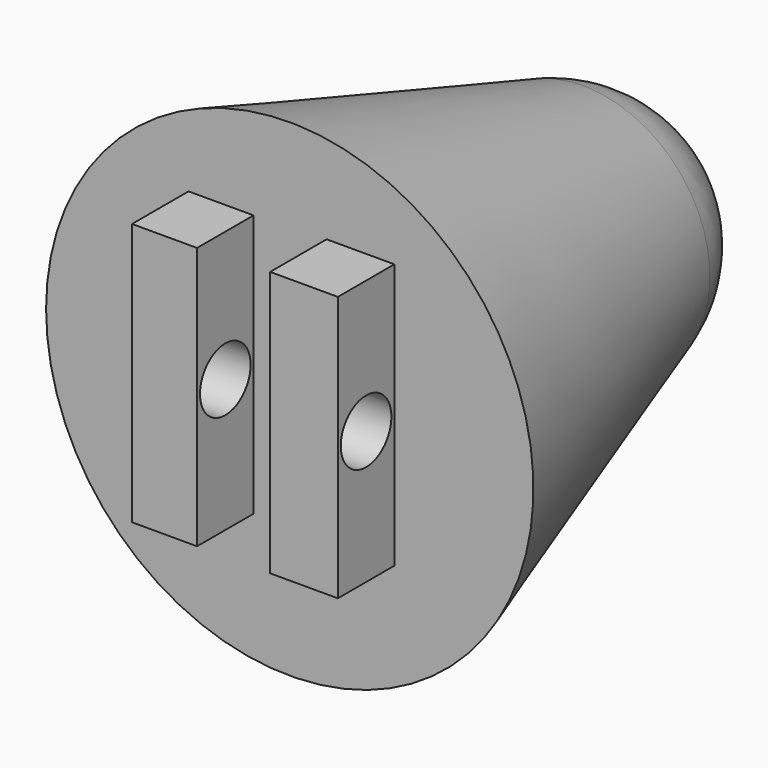
from build123d import *

# Parameters (mm, degrees)
F2_W     = 1.70688
F2_H     = 6.89864
F2_W_2   = 1.778
F2_H_2   = 6.969761
F3_DEPTH = 1.8542
F4_R     = 0.830502
F5_DEPTH = 10


with BuildPart() as f1:
    # F0 (on Top) → F1 (revolve)
    with BuildSketch(Plane.XY):
        with BuildLine():
            Line((-3.328416, 9.633204), (-6.4008, 0))
            Line((-6.4008, 0), (0, 0))
            Line((0, 0), (0, 0.874018))
            Line((0, 0.874018), (0, 7.52094))
            Line((0, 7.52094), (-2.88036, 7.52094))
            Line((-2.88036, 7.52094), (-2.88036, 9.12114))
            ThreePointArc((-2.88036, 9.12114), (-1.981838, 10.926176), (0, 11.297411))
            Line((0, 11.297411), (0, 12.257531))
            ThreePointArc((0, 12.257531), (-2.06608, 11.455059), (-3.328416, 9.633204))
        make_face()
    revolve(axis=Axis((0, 6.565775, 0), (0, -1, 0)))

    # F2 (on face) → F3 (join)
    with BuildSketch(Plane.XZ):
        with Locations((-1.805378, 0.486277)):
            Rectangle(F2_W, F2_H)
        with Locations((1.857302, 0.521838)):
            Rectangle(F2_W_2, F2_H_2)
    extrude(amount=F3_DEPTH)

    # F4 (on face) → F5 (cut)
    with BuildSketch(Plane.YZ.offset(2.746302)):
        with Locations((-0.9271, 0.521838)):
            Circle(F4_R)
    extrude(amount=-F5_DEPTH, mode=Mode.SUBTRACT)


solid = f1.part
